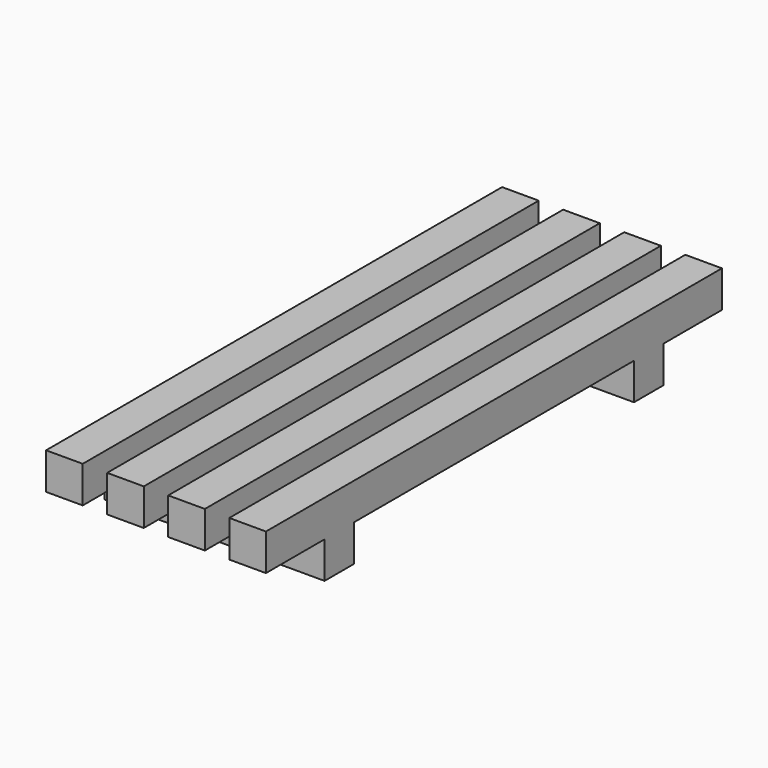
from build123d import *

# Parameters (mm, degrees)
F0_W     = 45
F0_H     = 350
F2_DEPTH = 45
F1_W     = 135
F1_H     = 45
F3_DEPTH = 45


with BuildPart() as f2:
    # F0 (on Top) → F2 (new body)
    with BuildSketch(Plane.XY):
        with Locations((112.5, 175)):
            Rectangle(F0_W, F0_H)
    extrude(amount=F2_DEPTH)



with BuildPart() as f2b:
    # F0 (on Top) → F2, piece 2 (new body)
    with BuildSketch(Plane.XY):
        with Locations((37.5, 175)):
            Rectangle(F0_W, F0_H)
    extrude(amount=F2_DEPTH)


with BuildPart() as f3:
    # F1 (on Top) → F3 (new body)
    with BuildSketch(Plane.XY):
        with Locations((67.5, 237.5)):
            Rectangle(F1_W, F1_H)
    extrude(amount=-F3_DEPTH)


with BuildPart() as f2_1:
    add(f2.part)

    add(f2b.part)  # F4 merges F2b
    # F4: F3, F2b, F2 across plane
    add(f3.part.mirror(Plane.XZ))
    add(f2b.part.mirror(Plane.XZ))
    add(f2.part.mirror(Plane.XZ))



with BuildPart() as f2_2:
    add(f2_1.part)

    add(f3.part)  # F5 merges F3
    # F5: F2, F3 across plane
    add(f2_1.part.mirror(Plane.YZ))
    add(f3.part.mirror(Plane.YZ))


solid = f2_2.part
